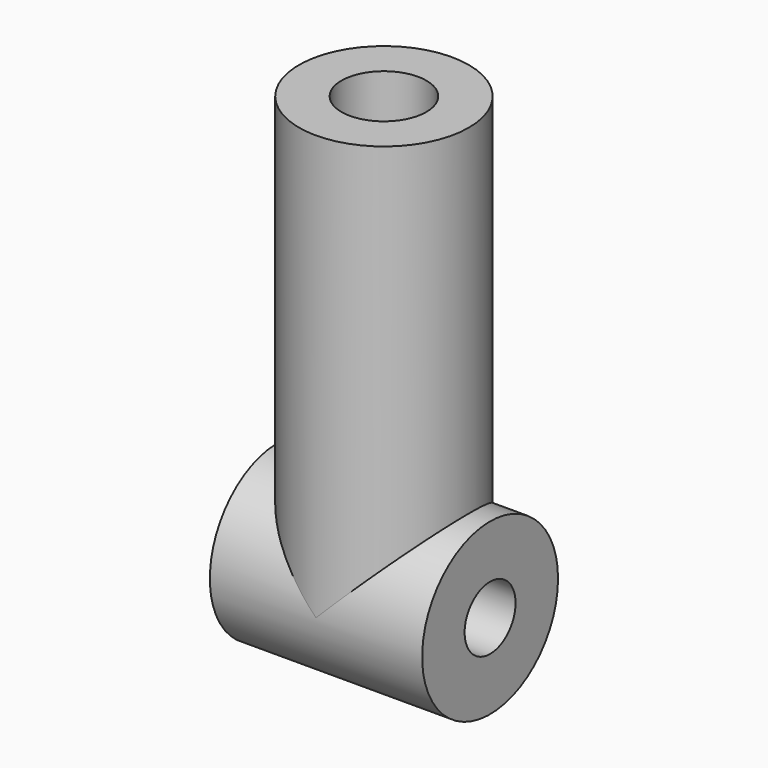
from build123d import *

# Parameters (mm, degrees)
SKETCH_W          = 4
SKETCH_H          = 20
SKETCH001_R       = 4
PAD_DEPTH         = 5
SKETCH002_R       = 1.5
POCKET_DEPTH      = 5.001
POCKET_DEPTH_BACK = -5.001
SKETCH003_R       = 2
POCKET001_DEPTH   = 15


with BuildPart() as part:
    # Sketch (on DatumPlane) → Revolution (revolve)
    with BuildSketch(Plane.XZ):
        with Locations((2, 10)):
            Rectangle(SKETCH_W, SKETCH_H)
    revolve(axis=Axis((0, 0, 0), (0, 0, 1)))

    # Sketch001 (on DatumPlane) → Pad (new body, symmetric)
    with BuildSketch(Plane.YZ):
        Circle(SKETCH001_R)
    extrude(amount=PAD_DEPTH, both=True)

    # Sketch002 (on DatumPlane) → Pocket (cut, two sides)
    with BuildSketch(Plane.YZ) as pocket_sk:
        Circle(SKETCH002_R)
    extrude(amount=-POCKET_DEPTH, mode=Mode.SUBTRACT)
    extrude(pocket_sk.sketch, amount=-POCKET_DEPTH_BACK, mode=Mode.SUBTRACT)

    # Sketch003 (on DatumPlane) → Pocket001 (cut)
    with BuildSketch(Plane.XY.offset(20)):
        Circle(SKETCH003_R)
    extrude(amount=-POCKET001_DEPTH, mode=Mode.SUBTRACT)


solid = part.part
